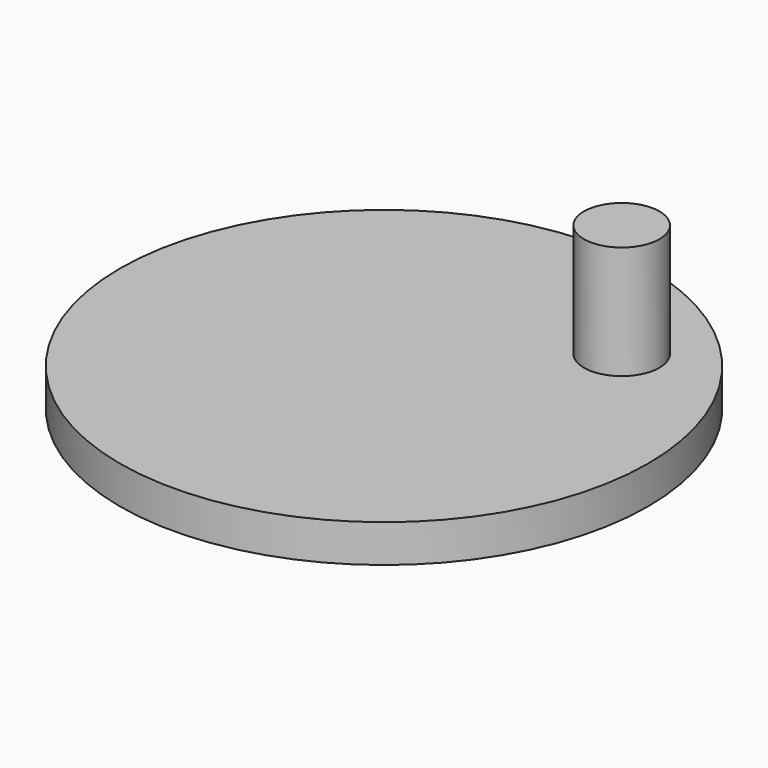
from build123d import *

# Parameters (mm, degrees)
F0_R     = 44.45
F1_DEPTH = 6.35
F2_R     = 6.349947
F3_DEPTH = 19.05


with BuildPart() as f1:
    # F0 (on Top) → F1 (new body)
    with BuildSketch(Plane.XY):
        Circle(F0_R)
    extrude(amount=F1_DEPTH)

    # F2 (on face) → F3 (join)
    with BuildSketch(Plane.XY.offset(6.35)):
        with Locations((22.225, 22.225)):
            Circle(F2_R)
    extrude(amount=F3_DEPTH)


solid = f1.part
